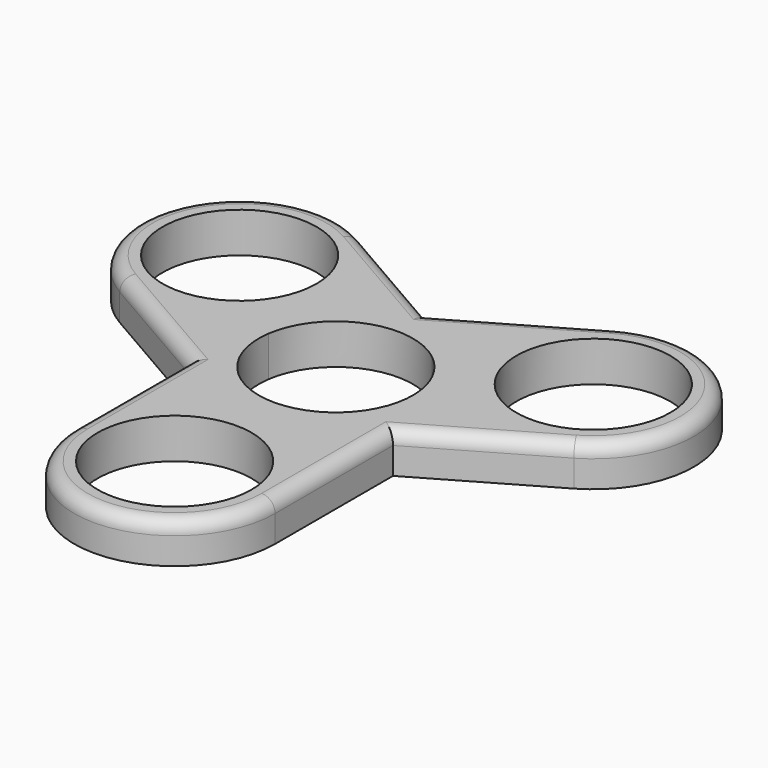
from build123d import *

# Parameters (mm, degrees)
F0_R     = 11.5
F1_DEPTH = 6
F2_COUNT = 3
F3_R     = 2


with BuildPart() as f1:
    # F0 (on Top) → F1 (new body)
    with BuildSketch(Plane.XY):
        with BuildLine():
            Line((15, -31.6162464206), (15, 0.3837535794))
            Line((15, 0.3837535794), (11.1837159736, 0.3837535794))
            ThreePointArc((11.1837159736, 0.3837535794), (-0.1936308108, -12.7913524315), (-11.5709775952, 0.3837535794))
            Line((-11.5709775952, 0.3837535794), (-15, 0.3837535794))
            Line((-15, 0.3837535794), (-15, -31.6162464206))
            ThreePointArc((-15, -31.6162464206), (0, -46.6162464206), (15, -31.6162464206))
        make_face()
        with Locations((0, -31.6162464206)):
            Circle(F0_R, mode=Mode.SUBTRACT)
    extrude(amount=F1_DEPTH)

    # F2: F1 ×3 about axis
    f2_axis = Axis((-0.1936308108, -1.2913524315, 0), (0, 0, -1))


with BuildPart() as f1_1:
    add(f1.part)
    for i in range(1, F2_COUNT):
        add(f1.part.rotate(f2_axis, i * 360 / F2_COUNT))

    # F3
    f3_edges = [f1_1.edges().sort_by_distance(p)[0] for p in [
        (8.945395, 21.52916, 6),
        (-24.526287, -4.78698, 6),
        (15, -20.616237, 6),
    ]]
    fillet(f3_edges, radius=F3_R)


solid = f1_1.part
